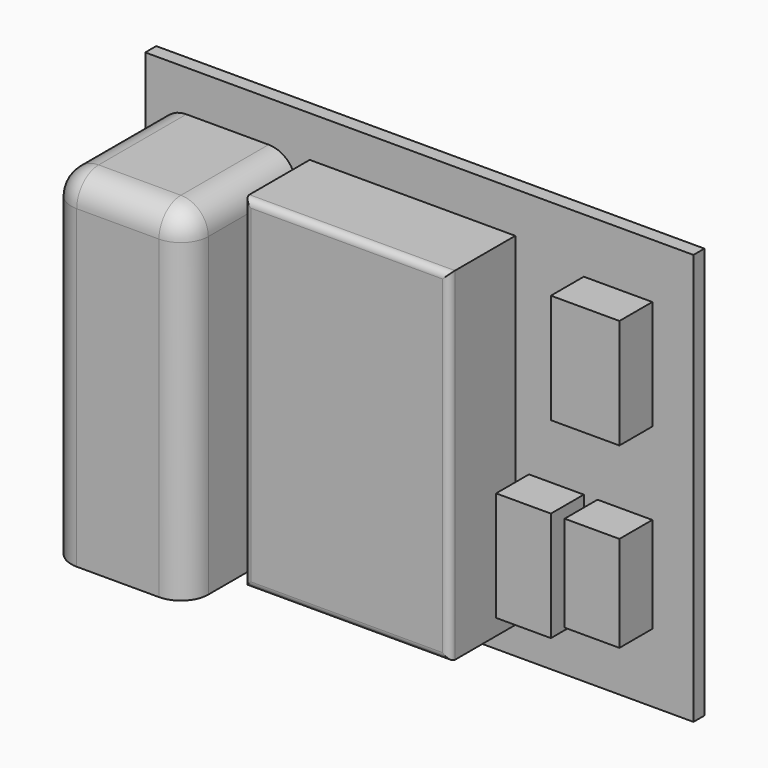
from build123d import *

# Parameters (mm, degrees)
F0_W     = 400
F0_H     = 300
F1_DEPTH = 5
F2_W     = 100
F2_H     = 250
F3_DEPTH = 100
F2_W_2   = 150
F4_DEPTH = 60
F5_W     = 50
F5_H     = 80
F5_W_2   = 40
F5_H_2   = 70
F6_DEPTH = 30
F7_R     = 20
F8_R     = 5


with BuildPart() as f1:
    # F0 (on Front) → F1 (new body, symmetric)
    with BuildSketch(Plane.XZ):
        Rectangle(F0_W, F0_H)
    extrude(amount=F1_DEPTH, both=True)


with BuildPart() as f3:
    # F2 (on face) → F3 (new body)
    with BuildSketch(Plane.XZ.offset(5)):
        with Locations((-140, -5)):
            Rectangle(F2_W, F2_H)
    extrude(amount=F3_DEPTH)

    # F7
    f7_edges = [f3.edges().sort_by_distance(p)[0] for p in [
        (-190, -105, -5),
        (-90, -55, 120),
        (-190, -55, 120),
        (-90, -105, -5),
        (-140, -105, 120),
    ]]
    fillet(f7_edges, radius=F7_R)


with BuildPart() as f4:
    # F2 (on face) → F4 (new body)
    with BuildSketch(Plane.XZ.offset(5)):
        with Locations((-5, -5)):
            Rectangle(F2_W_2, F2_H)
    extrude(amount=F4_DEPTH)

    # F8
    f8_edges = [f4.edges().sort_by_distance(p)[0] for p in [
        (-5, -65, 120),
        (70, -65, -5),
        (-80, -65, -5),
        (-5, -65, -130),
    ]]
    fillet(f8_edges, radius=F8_R)


with BuildPart() as f6:
    # F5 (on face) → F6 (new body)
    with BuildSketch(Plane.XZ.offset(5)):
        with Locations((145, 70)):
            Rectangle(F5_W, F5_H)
        with Locations((150, -65)):
            Rectangle(F5_W_2, F5_H_2)
        with Locations((100, -70)):
            Rectangle(F5_W_2, F5_H)
    extrude(amount=F6_DEPTH)


solid = Compound([f1.part, f3.part, f4.part, f6.part])
